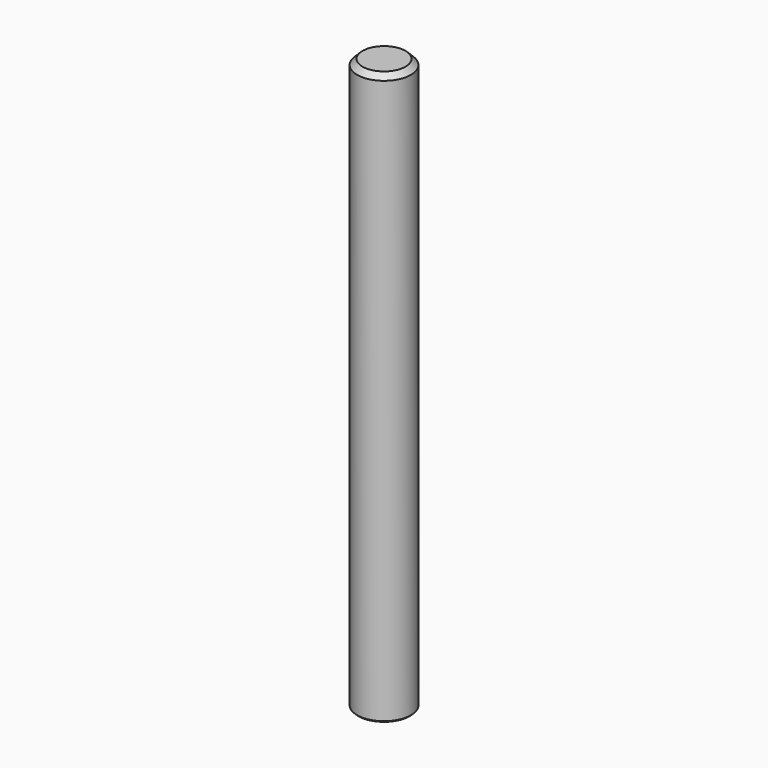
from build123d import *

# Parameters (mm, degrees)
F0_R     = 9.9
F1_DEPTH = 210
F2_SIZE  = 2
F3_R     = 2.5
F4_DEPTH = 8
F5_SIZE  = 0.5


with BuildPart() as f1:
    # F0 (on Top) → F1 (new body)
    with BuildSketch(Plane.XY):
        Circle(F0_R)
    extrude(amount=F1_DEPTH)

    # F2
    f2_edges = [f1.edges().sort_by_distance(p)[0] for p in [
        (-9.9, 0, 210),
    ]]
    chamfer(f2_edges, length=F2_SIZE)

    # F3 (on face) → F4 (cut)
    with BuildSketch(Plane(origin=(0, 0, 0), x_dir=(1, 0, 0), z_dir=(0, 0, -1))):
        Circle(F3_R)
        Circle(F3_R)
    extrude(amount=-F4_DEPTH, mode=Mode.SUBTRACT)

    # F5
    f5_edges = [f1.edges().sort_by_distance(p)[0] for p in [
        (-9.9, 0, 0),
    ]]
    chamfer(f5_edges, length=F5_SIZE)


solid = f1.part
